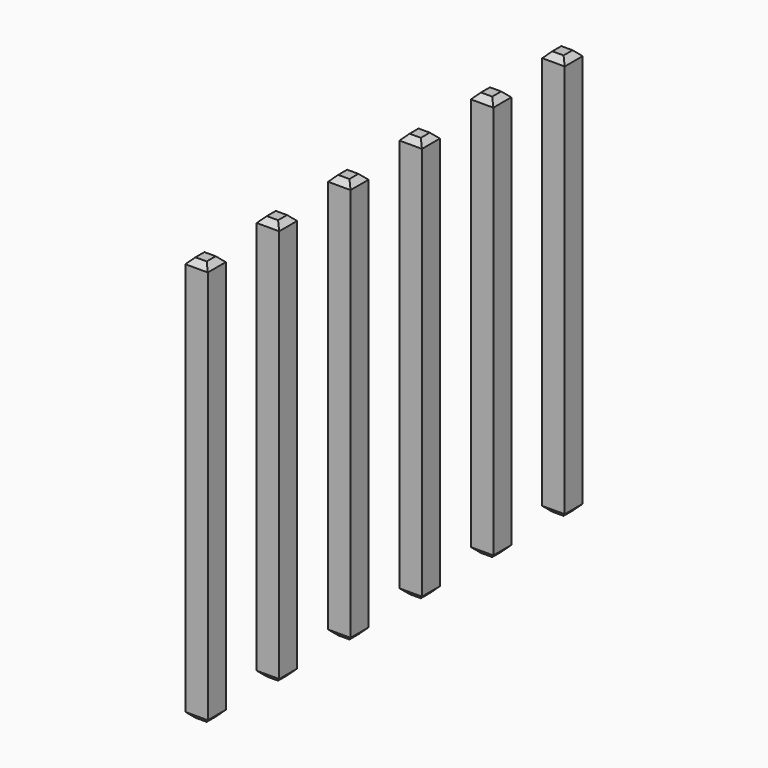
from build123d import *

# Parameters (mm, degrees)
SKETCH234_W       = 0.64
SKETCH234_H       = 11.54
PAD089_DEPTH      = 0.32
PAD089_DEPTH_BACK = 0.32
CHAMFER053_SIZE   = 0.16
ARRAY025_Y_COUNT  = 6
ARRAY025_Y_PITCH  = 2.54


with BuildPart() as part:
    # Sketch234 → Pad089 (new body, two sides)
    with BuildSketch(Plane.XZ) as pad089_sk:
        with Locations((0, 2.77)):
            Rectangle(SKETCH234_W, SKETCH234_H)
    extrude(amount=PAD089_DEPTH)
    extrude(pad089_sk.sketch, amount=-PAD089_DEPTH_BACK)

    # Chamfer053
    chamfer053_edges = [part.edges().sort_by_distance(p)[0] for p in [
        (0.32, 0, 8.54),
        (-0.32, 0, 8.54),
        (0, 0.32, 8.54),
        (0, -0.32, 8.54),
        (-0.32, 0, -3),
        (0.32, 0, -3),
        (0, 0.32, -3),
        (0, -0.32, -3),
    ]]
    chamfer(chamfer053_edges, length=CHAMFER053_SIZE)

    # Array025 Y: part ×6


with BuildPart() as part_1:
    add(part.part)
    with Locations(*[(0, i * ARRAY025_Y_PITCH, 0) for i in range(1, ARRAY025_Y_COUNT)]):
        add(part.part)


solid = part_1.part
